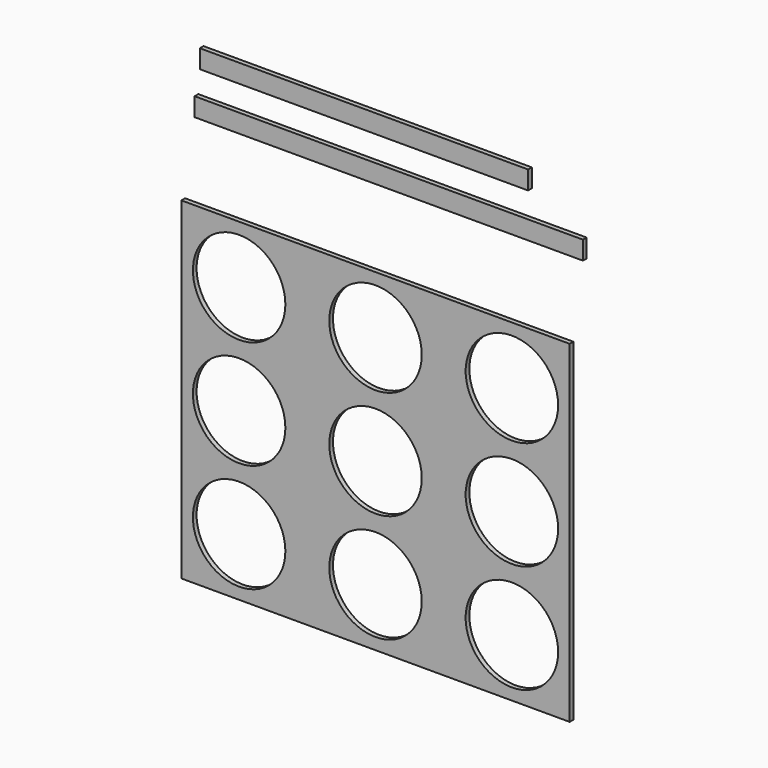
from build123d import *

# Parameters (mm, degrees)
F0_W     = 1066.8
F0_H     = 914.4
F0_R     = 127
F1_DEPTH = 12.7
F2_W     = 901.7
F2_H     = 50.8
F2_W_2   = 1066.8
F3_DEPTH = 12.7


with BuildPart() as f1:
    # F0 (on Front) → F1 (new body)
    with BuildSketch(Plane.XZ):
        with Locations((59.222925, 114.910951)):
            Rectangle(F0_W, F0_H)
        with Locations((-315.427075, -183.539049)):
            Circle(F0_R, mode=Mode.SUBTRACT)
        with Locations((-315.427075, 114.910951)):
            Circle(F0_R, mode=Mode.SUBTRACT)
        with Locations((59.222925, -183.539049)):
            Circle(F0_R, mode=Mode.SUBTRACT)
        with Locations((433.872925, -183.539049)):
            Circle(F0_R, mode=Mode.SUBTRACT)
        with Locations((433.872925, 114.910951)):
            Circle(F0_R, mode=Mode.SUBTRACT)
        with Locations((-315.427075, 413.360951)):
            Circle(F0_R, mode=Mode.SUBTRACT)
        with Locations((59.222925, 114.910951)):
            Circle(F0_R, mode=Mode.SUBTRACT)
        with Locations((59.222925, 413.360951)):
            Circle(F0_R, mode=Mode.SUBTRACT)
        with Locations((433.872925, 413.360951)):
            Circle(F0_R, mode=Mode.SUBTRACT)
    extrude(amount=F1_DEPTH)


with BuildPart() as f3:
    # F2 (on Front) → F3 (new body)
    with BuildSketch(Plane.XZ):
        with Locations((27.443166, 931.183351)):
            Rectangle(F2_W, F2_H)
        with Locations((95.716567, 810.443508)):
            Rectangle(F2_W_2, F2_H)
    extrude(amount=F3_DEPTH)


solid = Compound([f1.part, f3.part])
